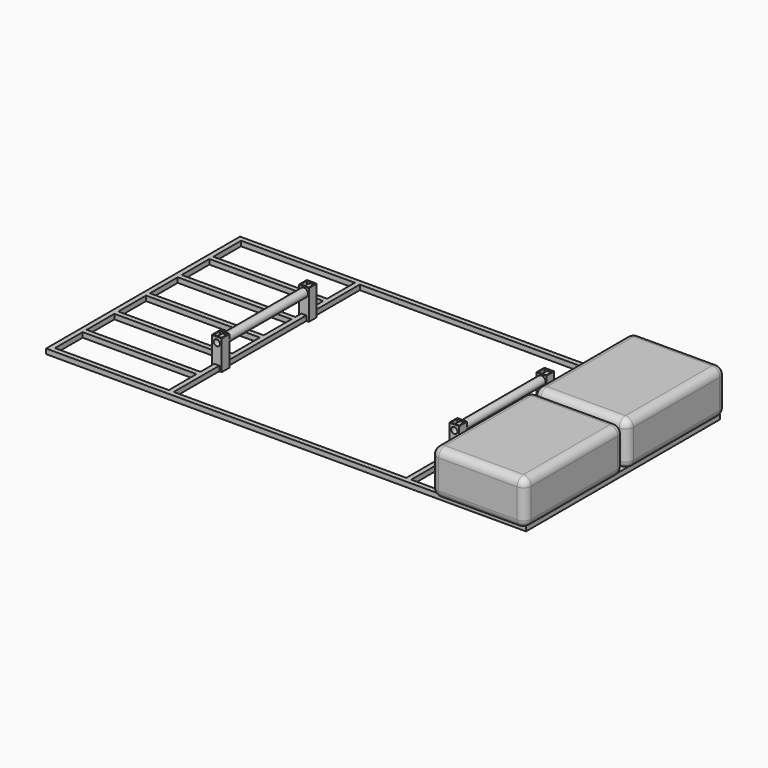
from build123d import *

# Parameters (mm, degrees)
F1_W      = 12.7
F1_H      = 12.7
F1_W_2    = 9.398
F1_H_2    = 9.398
F4_W      = 12.7
F4_H      = 12.7
F4_W_2    = 9.398
F4_H_2    = 9.398
F7_W      = 12.7
F7_H      = 12.7
F7_W_2    = 9.398
F7_H_2    = 9.398
F10_W     = 12.7
F10_H     = 12.7
F10_W_2   = 9.398
F10_H_2   = 9.398
F12_W     = 241.3
F12_H     = 317.5
F13_DEPTH = 114.3
F14_R     = 20
F14_2_R   = 20
F15_W     = 25.4
F15_H     = 25.4
F15_W_2   = 21.1836
F15_H_2   = 21.1836
F16_DEPTH = 76.2
F17_R     = 7.8994
F18_DEPTH = 474.901
F17_R_2   = 10.668
F19_DEPTH = 304.8


with BuildPart() as f2:
    # F2: sweep along a path in F0
    with BuildLine(Plane.XY) as f2_path:
        Line((0, 0), (-609.6, 0))
        Line((-609.6, 0), (-609.6, -609.6))
        Line((-609.6, -609.6), (0, -609.6))
        Line((0, -609.6), (609.6, -609.6))
        Line((609.6, -609.6), (609.6, 0))
        Line((609.6, 0), (0, 0))
    # F1 (on Right) → F2 (sweep)
    with BuildSketch(Plane.YZ):
        Rectangle(F1_W, F1_H)
        Rectangle(F1_W_2, F1_H_2, mode=Mode.SUBTRACT)
    sweep(path=f2_path.line, transition=Transition.RIGHT)

    # F5: sweep along a path in F0
    with BuildLine(Plane.XY) as f5_path:
        Line((304.8, -508), (609.6, -508))
    # F4 (on offset) → F5 (sweep)
    with BuildSketch(Plane.YZ.offset(304.8)):
        with Locations((-101.6, 0)):
            Rectangle(F4_W, F4_H)
        with Locations((-101.6, 0)):
            Rectangle(F4_W_2, F4_H_2, mode=Mode.SUBTRACT)
        with Locations((-203.2, 0)):
            Rectangle(F4_W, F4_H)
        with Locations((-203.2, 0)):
            Rectangle(F4_W_2, F4_H_2, mode=Mode.SUBTRACT)
        with Locations((-304.8, 0)):
            Rectangle(F4_W, F4_H)
        with Locations((-304.8, 0)):
            Rectangle(F4_W_2, F4_H_2, mode=Mode.SUBTRACT)
        with Locations((-406.4, 0)):
            Rectangle(F4_W, F4_H)
        with Locations((-406.4, 0)):
            Rectangle(F4_W_2, F4_H_2, mode=Mode.SUBTRACT)
        with Locations((-508, 0)):
            Rectangle(F4_W, F4_H)
        with Locations((-508, 0)):
            Rectangle(F4_W_2, F4_H_2, mode=Mode.SUBTRACT)
    sweep(path=f5_path.line)

    # F8: sweep along a path in F0
    with BuildLine(Plane.XY) as f8_path:
        Line((-304.8, -508), (-609.6, -508))
    # F7 (on offset) → F8 (sweep)
    with BuildSketch(Plane.YZ.offset(-304.8)):
        with Locations((-101.6, 0)):
            Rectangle(F7_W, F7_H)
        with Locations((-101.6, 0)):
            Rectangle(F7_W_2, F7_H_2, mode=Mode.SUBTRACT)
        with Locations((-203.2, 0)):
            Rectangle(F7_W, F7_H)
        with Locations((-203.2, 0)):
            Rectangle(F7_W_2, F7_H_2, mode=Mode.SUBTRACT)
        with Locations((-304.8, 0)):
            Rectangle(F7_W, F7_H)
        with Locations((-304.8, 0)):
            Rectangle(F7_W_2, F7_H_2, mode=Mode.SUBTRACT)
        with Locations((-406.4, 0)):
            Rectangle(F7_W, F7_H)
        with Locations((-406.4, 0)):
            Rectangle(F7_W_2, F7_H_2, mode=Mode.SUBTRACT)
        with Locations((-508, 0)):
            Rectangle(F7_W, F7_H)
        with Locations((-508, 0)):
            Rectangle(F7_W_2, F7_H_2, mode=Mode.SUBTRACT)
    sweep(path=f8_path.line)

    # F11: sweep along a path in F0
    with BuildLine(Plane.XY) as f11_path:
        Line((-304.8, 0), (-304.8, -609.6))
    # F10 (on offset) → F11 (sweep)
    with BuildSketch(Plane.XZ.offset(304.8)):
        with Locations((-304.8, 0)):
            Rectangle(F10_W, F10_H)
        with Locations((-304.8, 0)):
            Rectangle(F10_W_2, F10_H_2, mode=Mode.SUBTRACT)
        with Locations((304.8, 0)):
            Rectangle(F10_W, F10_H)
        with Locations((304.8, 0)):
            Rectangle(F10_W_2, F10_H_2, mode=Mode.SUBTRACT)
    sweep(path=f11_path.line)

    # F15 (on face) → F16 (join)
    with BuildSketch(Plane(origin=(0, 0, -6.35), x_dir=(1, 0, 0), z_dir=(0, 0, -1))):
        with Locations((-304.8, 444.5)):
            Rectangle(F15_W, F15_H)
        with Locations((-304.8, 444.5)):
            Rectangle(F15_W_2, F15_H_2, mode=Mode.SUBTRACT)
        with Locations((-304.8, 165.1)):
            Rectangle(F15_W, F15_H)
        with Locations((-304.8, 165.1)):
            Rectangle(F15_W_2, F15_H_2, mode=Mode.SUBTRACT)
        with Locations((304.8, 165.1)):
            Rectangle(F15_W, F15_H)
        with Locations((304.8, 165.1)):
            Rectangle(F15_W_2, F15_H_2, mode=Mode.SUBTRACT)
        with Locations((304.8, 444.5)):
            Rectangle(F15_W, F15_H)
        with Locations((304.8, 444.5)):
            Rectangle(F15_W_2, F15_H_2, mode=Mode.SUBTRACT)
    extrude(amount=-F16_DEPTH)

    # F17 (on face) → F18 (cut, through all)
    with BuildSketch(Plane.XZ.offset(457.2)):
        with Locations((-304.8, 56.007)):
            Circle(F17_R)
        with Locations((304.8, 56.007)):
            Circle(F17_R)
    extrude(amount=-F18_DEPTH, mode=Mode.SUBTRACT)

    # F17 (on face) → F19 (join, through all)
    with BuildSketch(Plane.XZ.offset(457.2)):
        with Locations((304.8, 56.007)):
            Circle(F17_R_2)
        with Locations((304.8, 56.007)):
            Circle(F17_R, mode=Mode.SUBTRACT)
        with Locations((-304.8, 56.007)):
            Circle(F17_R_2)
        with Locations((-304.8, 56.007)):
            Circle(F17_R, mode=Mode.SUBTRACT)
    extrude(amount=-F19_DEPTH)


with BuildPart() as f13:
    # F12 (on Top) → F13 (new body)
    with BuildSketch(Plane.XY):
        with Locations((501.65, -141.05)):
            Rectangle(F12_W, F12_H)
    extrude(amount=F13_DEPTH)

    # F14
    f14_edges = [f13.edges().sort_by_distance(p)[0] for p in [
        (622.3, -141.05, 114.3),
        (501.65, 17.7, 114.3),
        (381, -141.05, 114.3),
        (501.65, -299.8, 114.3),
        (622.3, -299.8, 57.15),
        (622.3, 17.7, 57.15),
        (622.3, -141.05, 0),
        (501.65, 17.7, 0),
        (381, -141.05, 0),
        (501.65, -299.8, 0),
        (381, 17.7, 57.15),
        (381, -299.8, 57.15),
    ]]
    fillet(f14_edges, radius=F14_R)


with BuildPart() as f13b:
    # F12 (on Top) → F13, piece 2 (new body)
    with BuildSketch(Plane.XY):
        with Locations((501.65, -468.55)):
            Rectangle(F12_W, F12_H)
    extrude(amount=F13_DEPTH)

    # F14#2
    f14_2_edges = [f13b.edges().sort_by_distance(p)[0] for p in [
        (622.3, -468.55, 114.3),
        (501.65, -309.8, 114.3),
        (381, -468.55, 114.3),
        (501.65, -627.3, 114.3),
        (622.3, -627.3, 57.15),
        (622.3, -309.8, 57.15),
        (622.3, -468.55, 0),
        (501.65, -309.8, 0),
        (381, -468.55, 0),
        (501.65, -627.3, 0),
        (381, -309.8, 57.15),
        (381, -627.3, 57.15),
    ]]
    fillet(f14_2_edges, radius=F14_2_R)


solid = Compound([f2.part, f13.part, f13b.part])
